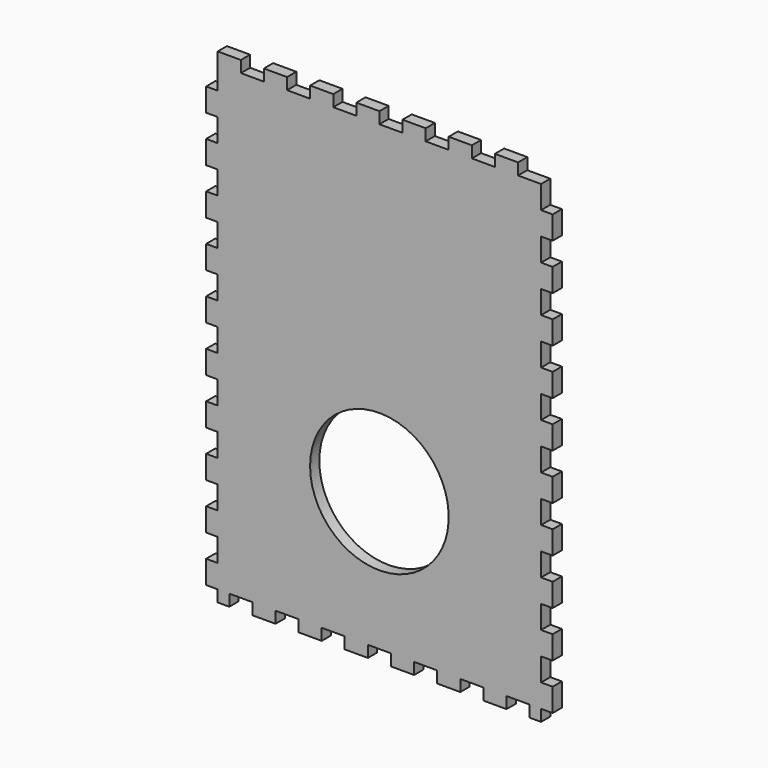
from build123d import *

# Parameters (mm, degrees)
F0_W     = 300
F0_H     = 420
F1_DEPTH = 10
F2_W     = 10
F2_H     = 10
F2_W_2   = 19.925
F2_H_2   = 19.925
F3_DEPTH = 10.001
F4_R     = 60
F5_DEPTH = 10.001


with BuildPart() as f1:
    # F0 (on Front) → F1 (new body)
    with BuildSketch(Plane.XZ):
        with Locations((150, 210)):
            Rectangle(F0_W, F0_H)
    extrude(amount=F1_DEPTH)

    # F2 (on face) → F3 (cut, through all)
    with BuildSketch(Plane(origin=(0, 0, 0), x_dir=(-1, 0, 0), z_dir=(0, 1, 0))):
        with Locations((-295, 5)):
            Rectangle(F2_W, F2_H)
        with Locations((-270.0375, 5)):
            Rectangle(F2_W_2, F2_H)
        with Locations((-230.0375, 5)):
            Rectangle(F2_W_2, F2_H)
        with Locations((-190.0375, 5)):
            Rectangle(F2_W_2, F2_H)
        with Locations((-150.0375, 5)):
            Rectangle(F2_W_2, F2_H)
        with Locations((-110.0375, 5)):
            Rectangle(F2_W_2, F2_H)
        with Locations((-70.0375, 5)):
            Rectangle(F2_W_2, F2_H)
        with Locations((-30.0375, 5)):
            Rectangle(F2_W_2, F2_H)
        with Locations((-5, 5)):
            Rectangle(F2_W, F2_H)
        with Locations((-295, 40.0375)):
            Rectangle(F2_W, F2_H_2)
        with Locations((-295, 80.0375)):
            Rectangle(F2_W, F2_H_2)
        with Locations((-295, 120.0375)):
            Rectangle(F2_W, F2_H_2)
        with Locations((-295, 160.0375)):
            Rectangle(F2_W, F2_H_2)
        with Locations((-295, 200.0375)):
            Rectangle(F2_W, F2_H_2)
        with Locations((-295, 240.0375)):
            Rectangle(F2_W, F2_H_2)
        with Locations((-295, 280.0375)):
            Rectangle(F2_W, F2_H_2)
        with Locations((-295, 320.0375)):
            Rectangle(F2_W, F2_H_2)
        with Locations((-295, 360.0375)):
            Rectangle(F2_W, F2_H_2)
        with Locations((-295, 400.0375)):
            Rectangle(F2_W, F2_H_2)
        with Locations((-295, 415)):
            Rectangle(F2_W, F2_H)
        with Locations((-280.0375, 415)):
            Rectangle(F2_W_2, F2_H)
        with Locations((-240.0375, 415)):
            Rectangle(F2_W_2, F2_H)
        with Locations((-200.0375, 415)):
            Rectangle(F2_W_2, F2_H)
        with Locations((-160.0375, 415)):
            Rectangle(F2_W_2, F2_H)
        with Locations((-120.0375, 415)):
            Rectangle(F2_W_2, F2_H)
        with Locations((-80.0375, 415)):
            Rectangle(F2_W_2, F2_H)
        with Locations((-40.0375, 415)):
            Rectangle(F2_W_2, F2_H)
        Polygon((9.925, 420), (-10, 420), (-10, 410), (0, 410), (9.925, 410), align=None)
        with Locations((-5, 400.0375)):
            Rectangle(F2_W, F2_H_2)
        with Locations((-5, 360.0375)):
            Rectangle(F2_W, F2_H_2)
        with Locations((-5, 320.0375)):
            Rectangle(F2_W, F2_H_2)
        with Locations((-5, 280.0375)):
            Rectangle(F2_W, F2_H_2)
        with Locations((-5, 240.0375)):
            Rectangle(F2_W, F2_H_2)
        with Locations((-5, 200.0375)):
            Rectangle(F2_W, F2_H_2)
        with Locations((-5, 160.0375)):
            Rectangle(F2_W, F2_H_2)
        with Locations((-5, 120.0375)):
            Rectangle(F2_W, F2_H_2)
        with Locations((-5, 80.0375)):
            Rectangle(F2_W, F2_H_2)
        with Locations((-5, 40.0375)):
            Rectangle(F2_W, F2_H_2)
    extrude(amount=-F3_DEPTH, mode=Mode.SUBTRACT)

    # F4 (on face) → F5 (cut, through all)
    with BuildSketch(Plane(origin=(0, 0, 0), x_dir=(-1, 0, 0), z_dir=(0, 1, 0))):
        with Locations((-150, 130)):
            Circle(F4_R)
    extrude(amount=-F5_DEPTH, mode=Mode.SUBTRACT)


solid = f1.part
